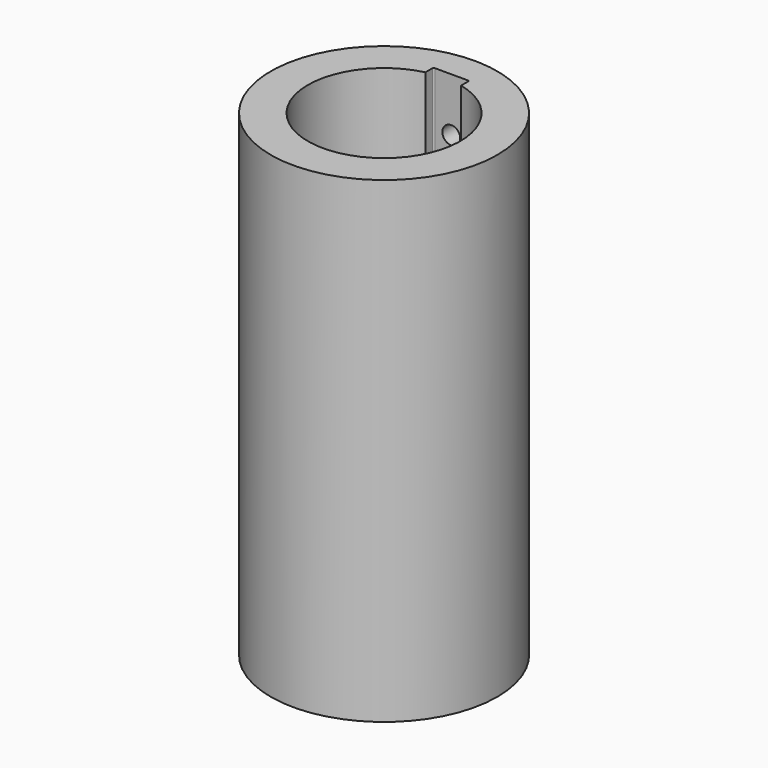
from build123d import *

# Parameters (mm, degrees)
F0_R     = 60.325
F1_DEPTH = 254
F2_R     = 4.7625
F3_DEPTH = 60.326
F4_R     = 0.762


with BuildPart() as f1:
    # F0 (on Top) → F1 (new body)
    with BuildSketch(Plane.XY):
        Circle(F0_R)
        with BuildLine():
            ThreePointArc((9.525, 39.416571), (0, -40.5511), (-9.525, 39.416571))
            Line((-9.525, 39.416571), (-9.525, 44.7675))
            Line((-9.525, 44.7675), (9.525, 44.7675))
            Line((9.525, 44.7675), (9.525, 39.416571))
        make_face(mode=Mode.SUBTRACT)
    extrude(amount=-F1_DEPTH)

    # F2 (on Front) → F3 (cut, through all)
    with BuildSketch(Plane.XZ):
        with Locations((0, -28.575)):
            Circle(F2_R)
        with Locations((0, -225.425)):
            Circle(F2_R)
    extrude(amount=-F3_DEPTH, mode=Mode.SUBTRACT)

    # F4
    f4_edges = [f1.edges().sort_by_distance(p)[0] for p in [
        (-9.525, 44.7675, -127),
        (9.525, 44.7675, -127),
    ]]
    fillet(f4_edges, radius=F4_R)


solid = f1.part
